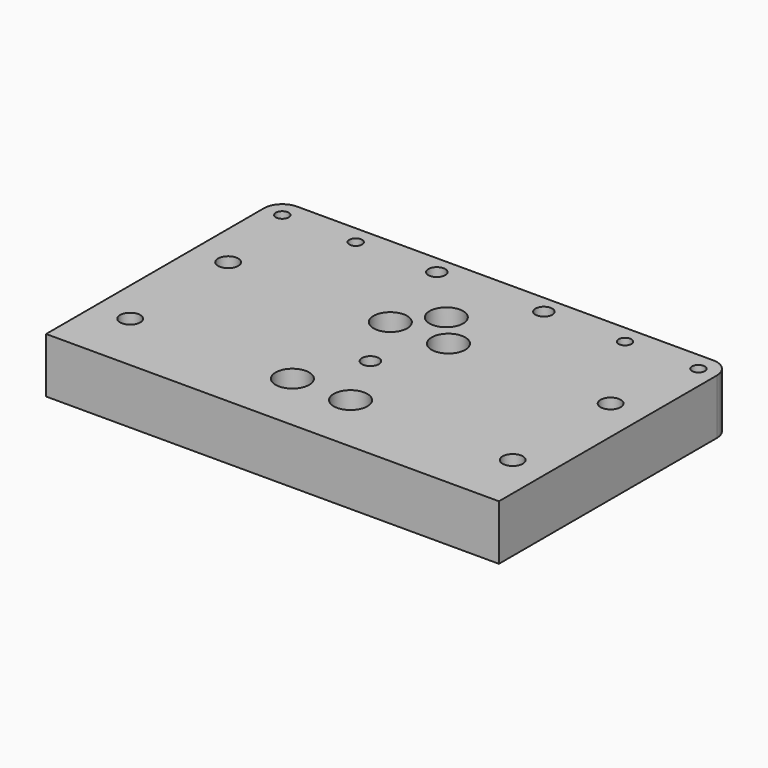
from build123d import *

# Parameters (mm, degrees)
SKETCH_W        = 148
SKETCH_H        = 95
PAD_DEPTH       = 18
SKETCH001_R     = 3.3
SKETCH001_R_2   = 2.75
SKETCH001_R_3   = 2.1
POCKET_DEPTH    = 18.001
SKETCH002_R     = 5.5
POCKET001_DEPTH = 6.8
FILLET_R        = 6
SKETCH003_R     = 2.75
POCKET002_DEPTH = 18.001


with BuildPart() as part:
    # Sketch → Pad (new body)
    with BuildSketch(Plane.XY):
        Rectangle(SKETCH_W, SKETCH_H)
    extrude(amount=PAD_DEPTH)

    # Sketch001 (on Face6 of Pad) → Pocket (cut, through all)
    with BuildSketch(Plane.XY.offset(18)):
        with Locations((-62.5, 12.5)):
            Circle(SKETCH001_R)
        with Locations((-62.5, -27.5)):
            Circle(SKETCH001_R)
        with Locations((-9.5, 12.5)):
            Circle(SKETCH001_R)
        with Locations((-9.5, -27.5)):
            Circle(SKETCH001_R)
        with Locations((0, -7.5)):
            Circle(SKETCH001_R_2)
        with Locations((0, 23.5)):
            Circle(SKETCH001_R_2)
        with Locations((-68, 41.5)):
            Circle(SKETCH001_R_3)
        with Locations((-44, 41.5)):
            Circle(SKETCH001_R_3)
        with Locations((-17.5, 41.5)):
            Circle(SKETCH001_R_2)
        with Locations((9.5, -27.5)):
            Circle(SKETCH001_R)
        with Locations((9.5, 12.5)):
            Circle(SKETCH001_R)
        with Locations((17.5, 41.5)):
            Circle(SKETCH001_R_2)
        with Locations((44, 41.5)):
            Circle(SKETCH001_R_3)
        with Locations((68, 41.5)):
            Circle(SKETCH001_R_3)
        with Locations((62.5, 12.5)):
            Circle(SKETCH001_R)
        with Locations((62.5, -27.5)):
            Circle(SKETCH001_R)
    extrude(amount=-POCKET_DEPTH, mode=Mode.SUBTRACT)

    # Sketch002 → Pocket001 (cut)
    with BuildSketch(Plane.XY.offset(18)):
        with Locations((-9.5, 12.5)):
            Circle(SKETCH002_R)
        with Locations((9.5, 12.5)):
            Circle(SKETCH002_R)
        with Locations((-9.5, -27.5)):
            Circle(SKETCH002_R)
        with Locations((9.5, -27.5)):
            Circle(SKETCH002_R)
        with Locations((0, 23.5)):
            Circle(SKETCH002_R)
    extrude(amount=-POCKET001_DEPTH, mode=Mode.SUBTRACT)

    # Fillet
    fillet_edges = [part.edges().sort_by_distance(p)[0] for p in [
        (-74, 47.5, 9),
        (74, 47.5, 9),
    ]]
    fillet(fillet_edges, radius=FILLET_R)

    # Sketch003 (on Face5 of Fillet) → Pocket002 (cut, through all)
    with BuildSketch(Plane.XY.offset(18)):
        with Locations((0, -7.5)):
            Circle(SKETCH003_R)
        with Locations((0, 23.5)):
            Circle(SKETCH003_R)
    extrude(amount=-POCKET002_DEPTH, mode=Mode.SUBTRACT)


solid = part.part
